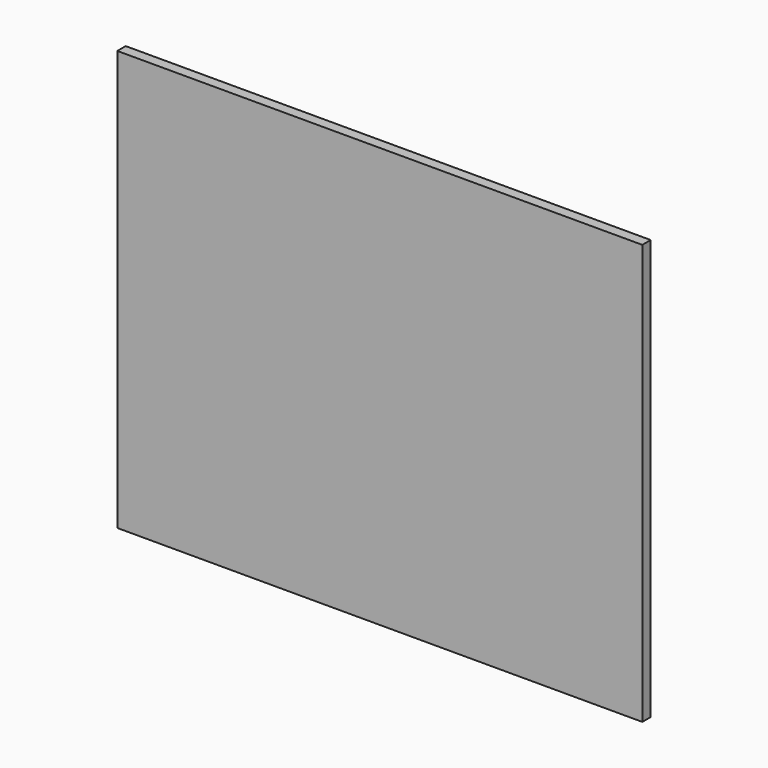
from build123d import *

# Parameters (mm, degrees)
F0_W     = 127
F0_H     = 101.6
F1_DEPTH = 2.54


with BuildPart() as f1:
    # F0 (on Front) → F1 (new body)
    with BuildSketch(Plane.XZ):
        Rectangle(F0_W, F0_H)
        Rectangle(F0_W, F0_H)
    extrude(amount=F1_DEPTH)


solid = f1.part
